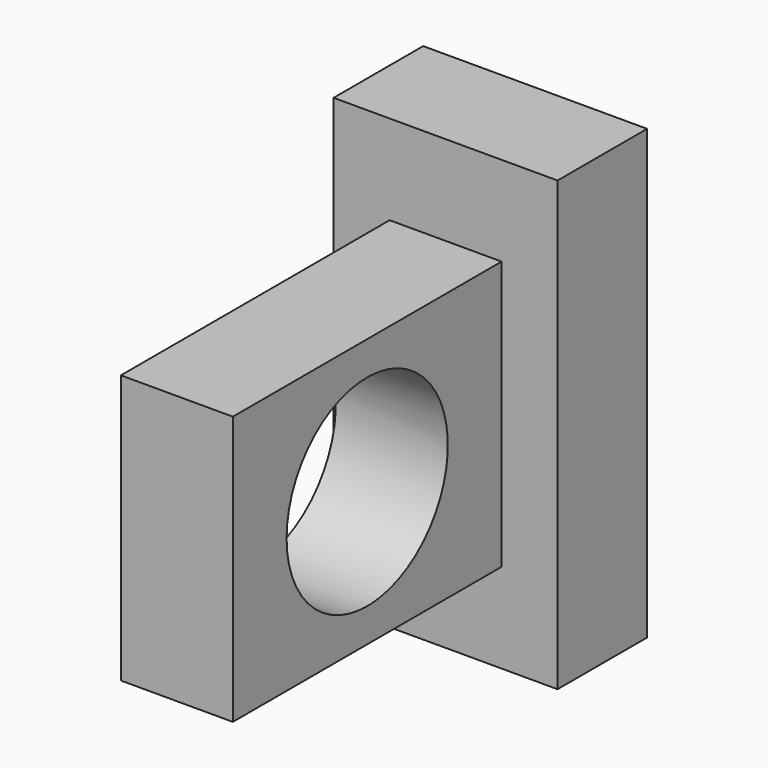
from build123d import *

# Parameters (mm, degrees)
F0_W     = 5
F0_H     = 10
F1_DEPTH = 2.5
F2_W     = 2.5
F2_H     = 6
F3_DEPTH = 7.5
F4_R     = 2.25
F5_DEPTH = 3.44


with BuildPart() as f1:
    # F0 (on Front) → F1 (new body)
    with BuildSketch(Plane.XZ):
        Rectangle(F0_W, F0_H)
    extrude(amount=F1_DEPTH)

    # F2 (on face) → F3 (join)
    with BuildSketch(Plane.XZ.offset(2.5)):
        Rectangle(F2_W, F2_H)
    extrude(amount=F3_DEPTH)

    # F4 (on face) → F5 (cut)
    with BuildSketch(Plane(origin=(-1.25, 0, 0), x_dir=(0, -1, 0), z_dir=(-1, 0, 0))):
        with Locations((6.25, 0)):
            Circle(F4_R)
    extrude(amount=-F5_DEPTH, mode=Mode.SUBTRACT)


solid = f1.part
